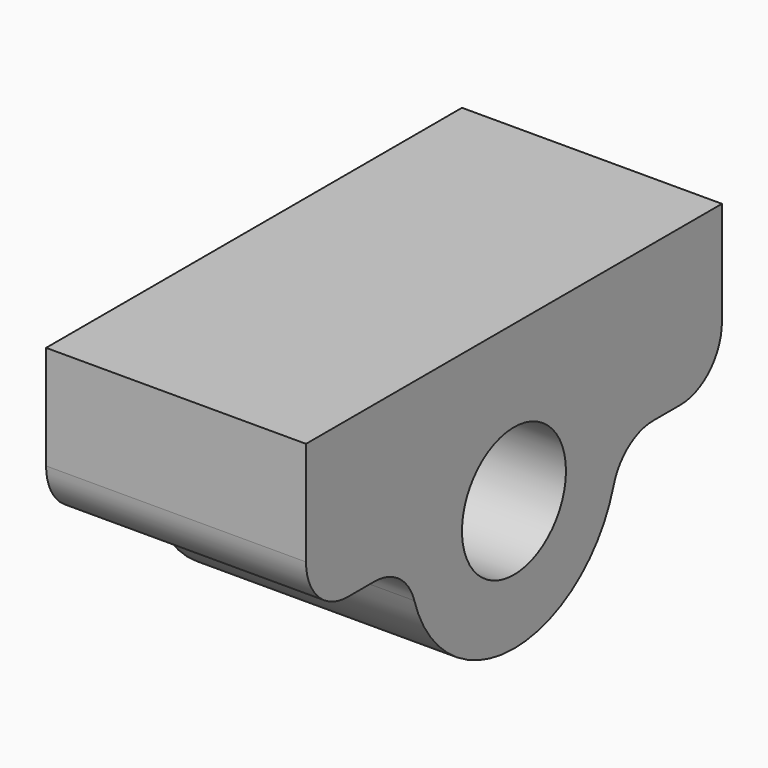
from build123d import *

# Parameters (mm, degrees)
F0_R     = 6.35
F1_DEPTH = 25.4
F2_R     = 5.08


with BuildPart() as f1:
    # F0 (on Right) → F1 (new body)
    with BuildSketch(Plane.YZ):
        with BuildLine():
            ThreePointArc((-12.7, 0), (0, 12.7), (12.7, 0))
            Line((12.7, 0), (25.4, 0))
            Line((25.4, 0), (25.4, 15.24))
            Line((25.4, 15.24), (-25.4, 15.24))
            Line((-25.4, 15.24), (-25.4, 0))
            Line((-25.4, 0), (-12.7, 0))
        make_face()
        with BuildLine():
            ThreePointArc((-12.7, 0), (0, -12.7), (12.7, 0))
            ThreePointArc((12.7, 0), (0, 12.7), (-12.7, 0))
        make_face()
        Circle(F0_R, mode=Mode.SUBTRACT)
    extrude(amount=F1_DEPTH)

    # F2
    f2_edges = [f1.edges().sort_by_distance(p)[0] for p in [
        (12.7, -12.7, 0),
        (12.7, 12.7, 0),
        (12.7, 25.4, 0),
        (12.7, -25.4, 0),
    ]]
    fillet(f2_edges, radius=F2_R)


solid = f1.part
